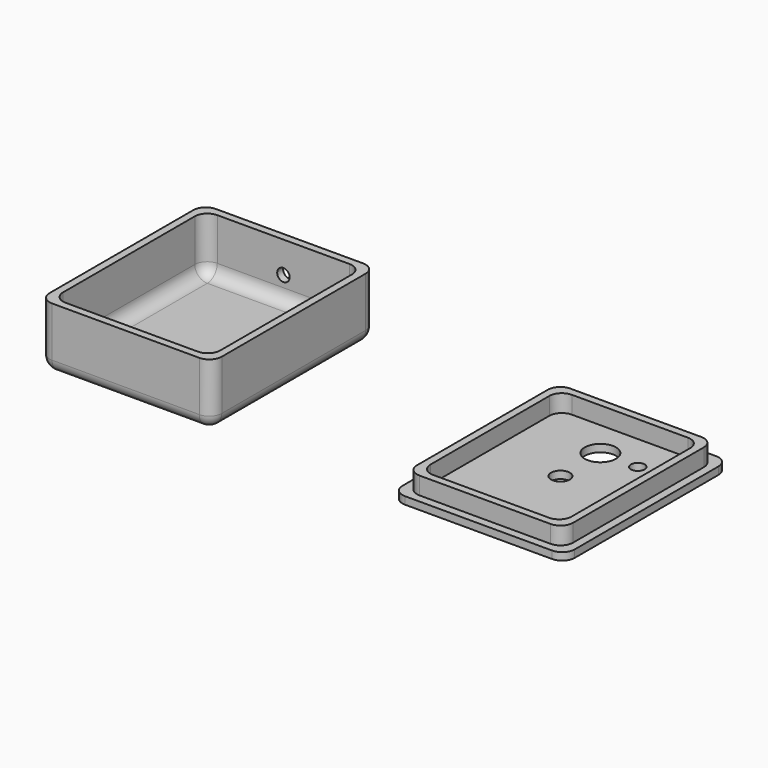
from build123d import *

# Parameters (mm, degrees)
F0_W     = 69
F0_H     = 82
F0_W_2   = 63
F0_H_2   = 76
F1_DEPTH = 25
F2_DEPTH = 3
F0_W_3   = 62.5
F0_H_3   = 75.5
F0_W_4   = 56.5
F0_H_4   = 69.5
F3_DEPTH = 10
F0_R     = 3.75
F0_R_2   = 6.25
F0_R_3   = 2.75
F4_DEPTH = 3
F5_R     = 5
F5_2_R   = 5
F6_R     = 2.5
F7_DEPTH = 25


with BuildPart() as f1:
    # F0 (on Top) → F1 (new body)
    with BuildSketch(Plane.XY):
        Rectangle(F0_W, F0_H)
        Rectangle(F0_W_2, F0_H_2, mode=Mode.SUBTRACT)
    extrude(amount=F1_DEPTH)

    # F0 (on Top) → F2 (join)
    with BuildSketch(Plane.XY):
        Rectangle(F0_W_2, F0_H_2)
    extrude(amount=F2_DEPTH)

    # F5
    f5_edges = [f1.edges().sort_by_distance(p)[0] for p in [
        (34.5, 41, 12.5),
        (31.5, 38, 14),
        (-31.5, 38, 14),
        (-34.5, 41, 12.5),
        (34.5, -41, 12.5),
        (31.5, -38, 14),
        (-34.5, -41, 12.5),
        (-31.5, -38, 14),
        (0, 41, 0),
        (-34.5, 0, 0),
        (0, -41, 0),
        (34.5, 0, 0),
        (0, 38, 3),
        (-31.5, 0, 3),
        (0, -38, 3),
        (31.5, 0, 3),
    ]]
    fillet(f5_edges, radius=F5_R)

    # F6 (on face) → F7 (cut)
    with BuildSketch(Plane(origin=(0, 41, 0), x_dir=(-1, 0, 0), z_dir=(0, 1, 0))):
        with Locations((0, 12.5)):
            Circle(F6_R)
    extrude(amount=-F7_DEPTH, mode=Mode.SUBTRACT)


with BuildPart() as f3:
    # F0 (on Top) → F3 (new body)
    with BuildSketch(Plane.XY):
        with Locations((141.389757, 0)):
            Rectangle(F0_W_3, F0_H_3)
        with Locations((141.389757, 0)):
            Rectangle(F0_W_4, F0_H_4, mode=Mode.SUBTRACT)
    extrude(amount=F3_DEPTH)

    # F0 (on Top) → F4 (join)
    with BuildSketch(Plane.XY):
        with Locations((141.389757, 0)):
            Rectangle(F0_W, F0_H)
        with Locations((141.389757, 0)):
            Rectangle(F0_W_3, F0_H_3, mode=Mode.SUBTRACT)
        with Locations((141.389757, 0)):
            Rectangle(F0_W_4, F0_H_4)
        with Locations((141.389757, 0)):
            Circle(F0_R, mode=Mode.SUBTRACT)
        with Locations((141.389757, 20)):
            Circle(F0_R_2, mode=Mode.SUBTRACT)
        with Locations((156.389757, 20)):
            Circle(F0_R_3, mode=Mode.SUBTRACT)
    extrude(amount=F4_DEPTH)

    # F5#2
    f5_2_edges = [f3.edges().sort_by_distance(p)[0] for p in [
        (106.889757, -41, 1.5),
        (172.639757, -37.75, 6.5),
        (172.639757, 37.75, 6.5),
        (110.139757, 37.75, 6.5),
        (169.639757, 34.75, 6.5),
        (113.139757, 34.75, 6.5),
        (169.639757, -34.75, 6.5),
        (113.139757, -34.75, 6.5),
        (175.889757, 41, 1.5),
        (175.889757, -41, 1.5),
        (106.889757, 41, 1.5),
        (110.139757, -37.75, 6.5),
    ]]
    fillet(f5_2_edges, radius=F5_2_R)


solid = Compound([f1.part, f3.part])
